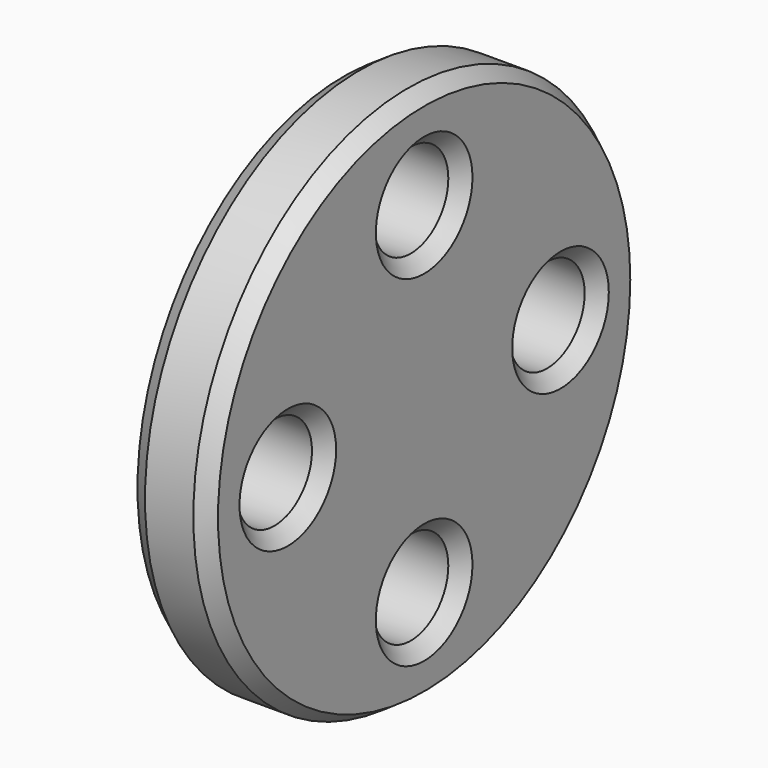
from build123d import *

# Parameters (mm, degrees)
F0_R     = 10
F0_R_2   = 1.75
F1_DEPTH = 3
F2_SIZE  = 0.5
F3_SIZE2 = 0.6
F3_SIZE  = 0.4


with BuildPart() as f1:
    # F0 (on Right) → F1 (new body)
    with BuildSketch(Plane.YZ):
        Circle(F0_R)
        with Locations((0, -6.35)):
            Circle(F0_R_2, mode=Mode.SUBTRACT)
        with Locations((-6.35, 0)):
            Circle(F0_R_2, mode=Mode.SUBTRACT)
        with Locations((6.35, 0)):
            Circle(F0_R_2, mode=Mode.SUBTRACT)
        with Locations((0, 6.35)):
            Circle(F0_R_2, mode=Mode.SUBTRACT)
    extrude(amount=F1_DEPTH)

    # F2
    f2_edges = [f1.edges().sort_by_distance(p)[0] for p in [
        (3, -8.1, 0),
        (3, -1.75, 6.35),
        (3, 4.6, 0),
        (3, -1.75, -6.35),
    ]]
    chamfer(f2_edges, length=F2_SIZE)

    # F3
    f3_edges = [f1.edges().sort_by_distance(p)[0] for p in [
        (3, -10, 0),
        (0, -10, 0),
    ]]
    chamfer(f3_edges, length=F3_SIZE, length2=F3_SIZE2)


solid = f1.part
